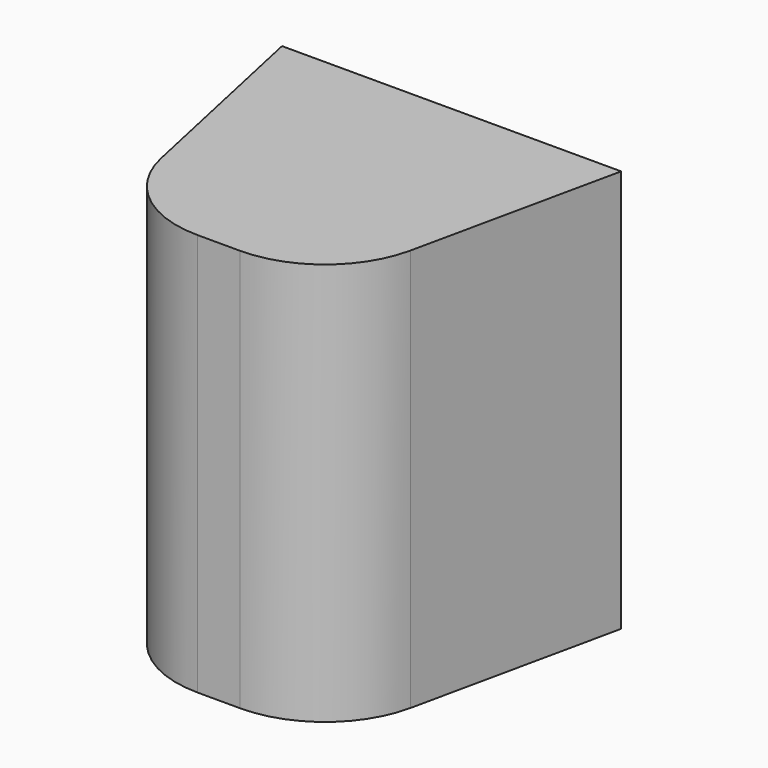
from build123d import *

# Parameters (mm, degrees)
PAD009_DEPTH = 9.5


with BuildPart() as part:
    # Sketch018 → Pad009 (new body)
    with BuildSketch(Plane.XY.offset(-1)):
        with BuildLine():
            Line((-4, 3.858899), (4, 3.858899))
            Line((4, 3.858899), (2.94356, -1.02822))
            ThreePointArc((0.5, -3), (2.069944, -2.445578), (2.94356, -1.02822))
            Line((0.5, -3), (-0.5, -3))
            ThreePointArc((-2.94356, -1.02822), (-2.069944, -2.445578), (-0.5, -3))
            Line((-2.94356, -1.02822), (-4, 3.858899))
        make_face()
    extrude(amount=-PAD009_DEPTH)


solid = part.part
